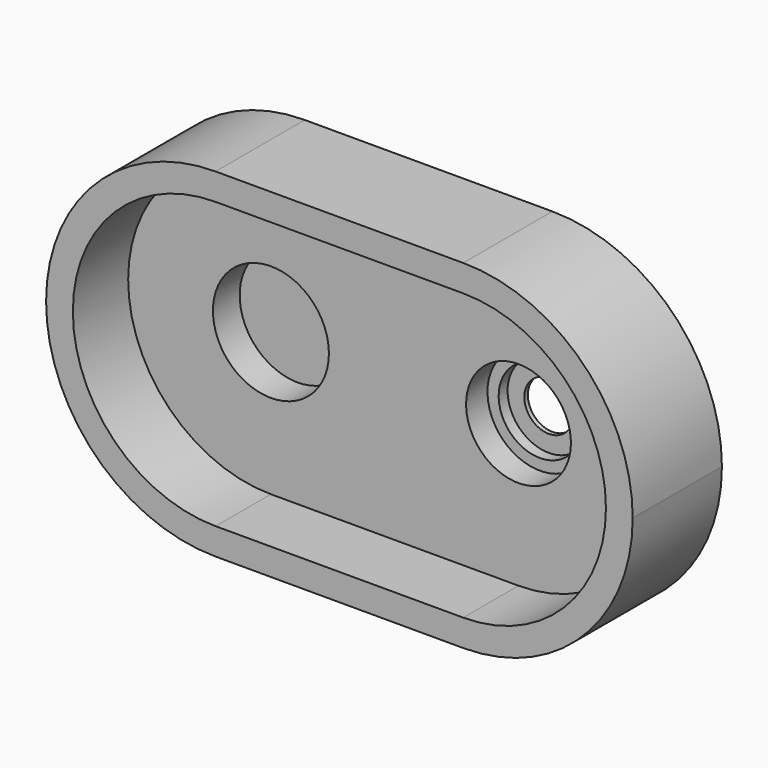
from build123d import *

# Parameters (mm, degrees)
F1_DEPTH = 50
F4_DEPTH = 31
F5_R     = 26
F6_DEPTH = 15


with BuildPart() as f1:
    # F0 (on Front) → F1 (new body)
    with BuildSketch(Plane.XZ):
        with BuildLine():
            ThreePointArc((55.5, 51.9206124771), (30.2492433933, 69.7207521053), (0, 76))
            ThreePointArc((0, 76), (-76, 0), (0, -76))
            ThreePointArc((0, -76), (30.2492433933, -69.7207521053), (55.5, -51.9206124771))
            ThreePointArc((55.5, -51.9206124771), (35, 0), (55.5, 51.9206124771))
        make_face()
        with BuildLine():
            ThreePointArc((111, 76), (80.7507566067, 69.7207521053), (55.5, 51.9206124771))
            ThreePointArc((55.5, 51.9206124771), (70.6894617323, 27.9105714739), (76, 0))
            ThreePointArc((76, 0), (70.6894617323, -27.9105714739), (55.5, -51.9206124771))
            ThreePointArc((55.5, -51.9206124771), (80.7507566067, -69.7207521053), (111, -76))
            ThreePointArc((111, -76), (164.7401153702, -53.7401153702), (187, 0))
            ThreePointArc((187, 0), (164.7401153702, 53.7401153702), (111, 76))
        make_face()
        with BuildLine():
            ThreePointArc((76, 0), (70.6894617323, 27.9105714739), (55.5, 51.9206124771))
            ThreePointArc((55.5, 51.9206124771), (35, 0), (55.5, -51.9206124771))
            ThreePointArc((55.5, -51.9206124771), (70.6894617323, -27.9105714739), (76, 0))
        make_face()
        with BuildLine():
            Line((111, 76), (0, 76))
            ThreePointArc((0, 76), (30.2492433933, 69.7207521053), (55.5, 51.9206124771))
            ThreePointArc((55.5, 51.9206124771), (80.7507566067, 69.7207521053), (111, 76))
        make_face()
        with BuildLine():
            ThreePointArc((55.5, -51.9206124771), (30.2492433933, -69.7207521053), (0, -76))
            Line((0, -76), (111, -76))
            ThreePointArc((111, -76), (80.7507566067, -69.7207521053), (55.5, -51.9206124771))
        make_face()
    extrude(amount=F1_DEPTH)

    # F3 (on offset) → F4 (cut)
    with BuildSketch(Plane.XZ.offset(19)):
        with BuildLine():
            Line((111, 64), (0, 64))
            ThreePointArc((0, 64), (-64, 0), (0, -64))
            Line((0, -64), (111, -64))
            ThreePointArc((111, -64), (175, 0), (111, 64))
        make_face()
    extrude(amount=F4_DEPTH, mode=Mode.SUBTRACT)

    # F5 (on face) → F6 (cut)
    with BuildSketch(Plane.XZ.offset(19)):
        Circle(F5_R)
    extrude(amount=-F6_DEPTH, mode=Mode.SUBTRACT)

    # F8 (on offset) → F9 (revolve, cut)
    with BuildSketch(Plane.YZ.offset(111)):
        Polygon((-19, 0), (0, 0), (0, 11), (-2, 11), (-2, 18.5), (-7, 18.5), (-7, 23.5), (-19, 23.5), align=None)
    revolve(axis=Axis((111, -31.2652774155, 0), (0, -1, 0)), mode=Mode.SUBTRACT)


solid = f1.part
